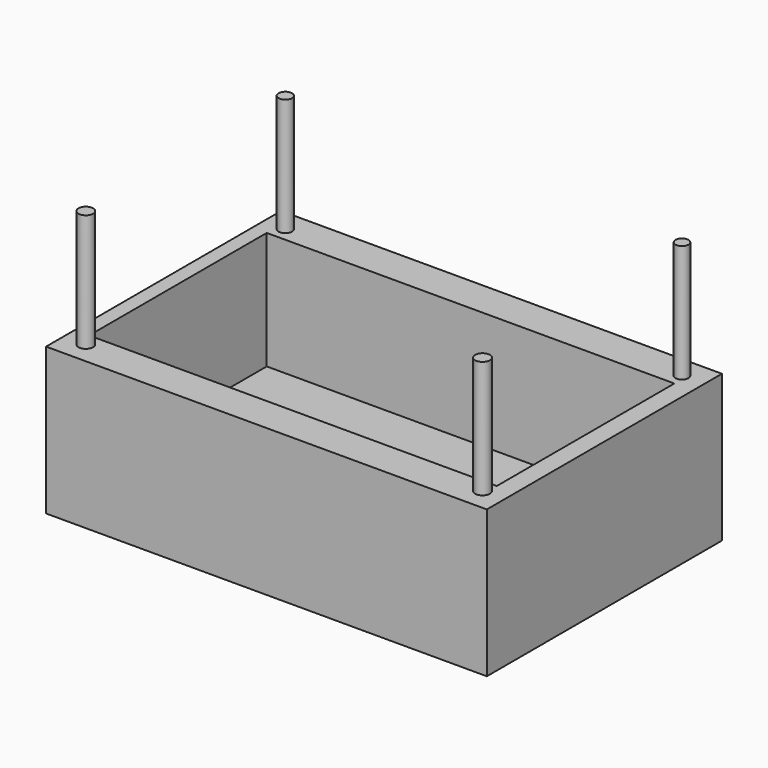
from build123d import *

# Parameters (mm, degrees)
F0_W     = 76.2
F0_H     = 50.8
F1_DEPTH = 25.4
F2_W     = 70.472512
F2_H     = 38.386009
F3_DEPTH = 20.32
F4_R     = 1.164425
F4_R_2   = 1.122016
F4_R_3   = 1.274708
F4_R_4   = 1.273834
F5_DEPTH = 20.32


with BuildPart() as f1:
    # F0 (on Top) → F1 (new body)
    with BuildSketch(Plane.XY):
        with Locations((38.1, 25.4)):
            Rectangle(F0_W, F0_H)
    extrude(amount=-F1_DEPTH)

    # F2 (on Top) → F3 (cut)
    with BuildSketch(Plane.XY):
        with Locations((37.732361, 25.370613)):
            Rectangle(F2_W, F2_H)
    extrude(amount=-F3_DEPTH, mode=Mode.SUBTRACT)

    # F4 (on Top) → F5 (join)
    with BuildSketch(Plane.XY):
        with Locations((3.776019, 46.978962)):
            Circle(F4_R)
        with Locations((72.362818, 46.967924)):
            Circle(F4_R_2)
        with Locations((72.392121, 3.830065)):
            Circle(F4_R_3)
        with Locations((3.809462, 3.828035)):
            Circle(F4_R_4)
    extrude(amount=F5_DEPTH)


solid = f1.part
